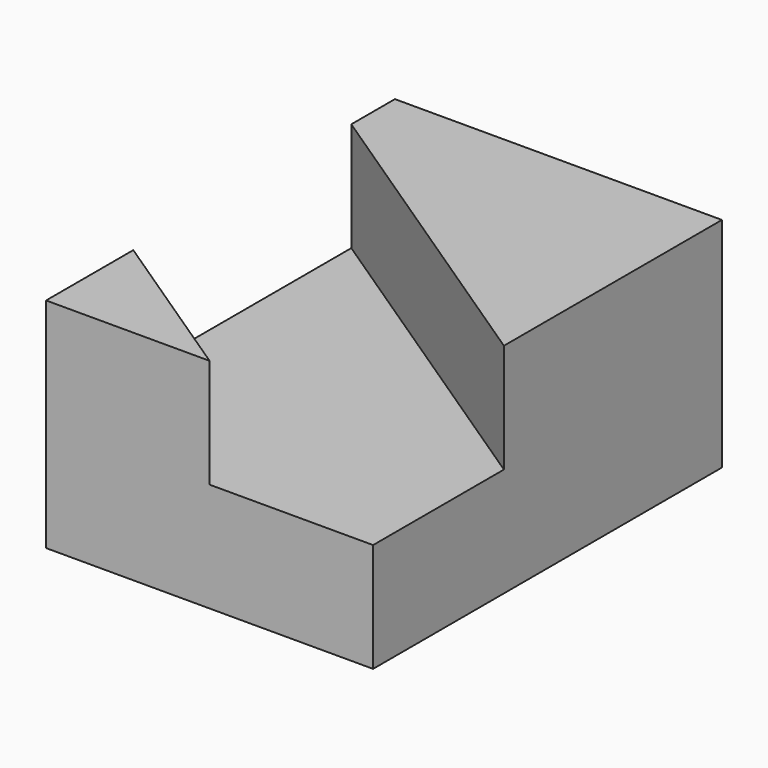
from build123d import *

# Parameters (mm, degrees)
F0_W     = 38.1
F0_H     = 50.8
F1_DEPTH = 12.7
F3_DEPTH = 12.7
F5_DEPTH = 12.7


with BuildPart() as f1:
    # F0 (on Top) → F1 (new body)
    with BuildSketch(Plane.XY):
        with Locations((-35.040685, 25.4)):
            Rectangle(F0_W, F0_H)
    extrude(amount=-F1_DEPTH)

    # F2 (on face) → F3 (join)
    with BuildSketch(Plane.XY):
        Polygon((-15.990685, 50.8), (-54.090685, 50.8), (-54.090685, 44.45), (-15.990685, 19.05), align=None)
    extrude(amount=F3_DEPTH)

    # F4 (on face) → F5 (join)
    with BuildSketch(Plane.XY):
        Polygon((-35.040685, 0), (-54.090685, 12.7), (-54.090685, 0), align=None)
    extrude(amount=F5_DEPTH)


solid = f1.part
